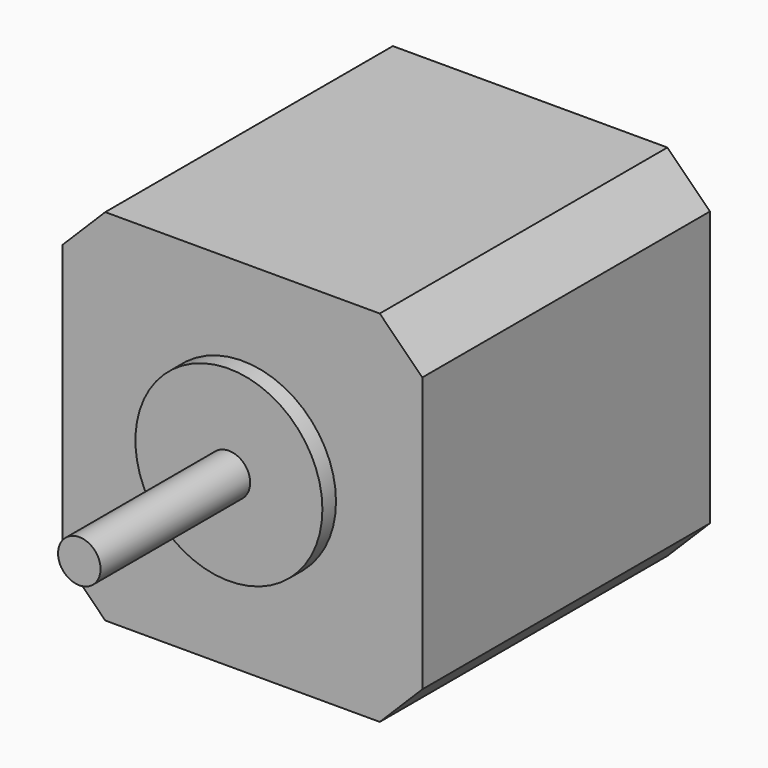
from build123d import *

# Parameters (mm, degrees)
F0_W     = 42.3
F0_H     = 42.3
F1_DEPTH = 21.15
F2_SIZE  = 5
F3_R     = 11
F4_DEPTH = 2
F5_R     = 2.5
F6_DEPTH = 22


with BuildPart() as f1:
    # F0 (on Front) → F1 (new body, symmetric)
    with BuildSketch(Plane.XZ):
        Rectangle(F0_W, F0_H)
    extrude(amount=F1_DEPTH, both=True)

    # F2
    f2_edges = [f1.edges().sort_by_distance(p)[0] for p in [
        (-21.15, 0, 21.15),
        (21.15, 0, 21.15),
        (-21.15, 0, -21.15),
        (21.15, 0, -21.15),
    ]]
    chamfer(f2_edges, length=F2_SIZE)

    # F3 (on face) → F4 (join)
    with BuildSketch(Plane.XZ.offset(21.15)):
        Circle(F3_R)
    extrude(amount=F4_DEPTH)

    # F5 (on face) → F6 (join)
    with BuildSketch(Plane.XZ.offset(23.15)):
        Circle(F5_R)
    extrude(amount=F6_DEPTH)


solid = f1.part
